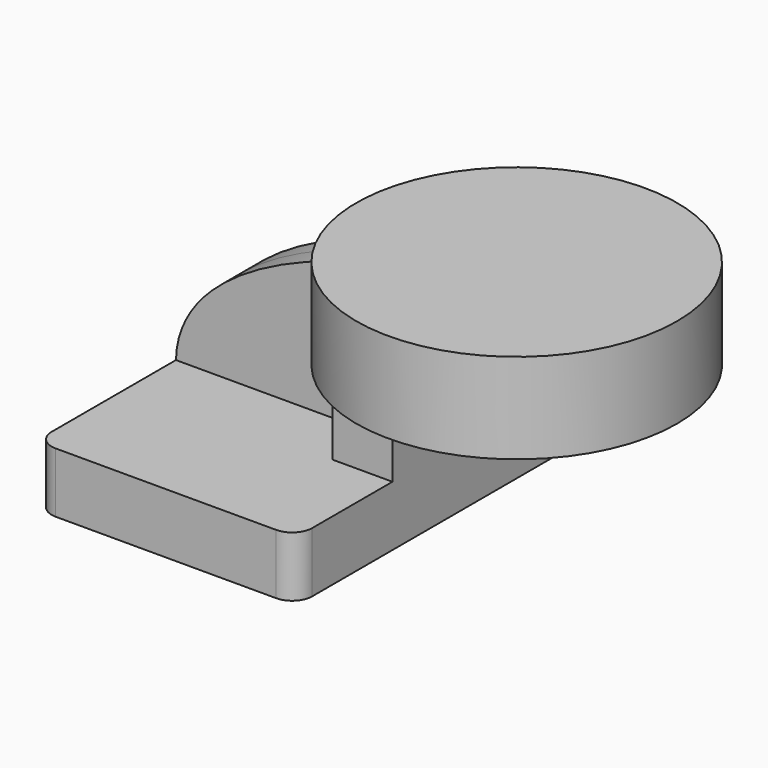
from build123d import *

# Parameters (mm, degrees)
F2_DEPTH = 63.5
F0_W     = 25.4
F0_H     = 19.05
F3_DEPTH = 25.4
F4_DEPTH = 7.9375
F6_R     = 6.35


with BuildPart() as f2:
    # F0 (on Front) → F2 (new body, symmetric)
    with BuildSketch(Plane.XZ):
        Polygon((22.225, 9.525), (-41.275, 9.525), (-41.275, -9.525), (41.275, -9.525), (41.275, 9.525), align=None)
    extrude(amount=F2_DEPTH, both=True)

    # F0 (on Front) → F3 (join, symmetric)
    with BuildSketch(Plane.XZ):
        with BuildLine():
            Line((22.225, 27.0002), (22.225, 9.525))
            Line((22.225, 9.525), (41.275, 9.525))
            Line((41.275, 9.525), (41.275, 27.0002))
            ThreePointArc((41.275, 27.0002), (45.92468, 38.22552), (57.15, 42.8752))
            Line((57.15, 42.8752), (60.325, 42.8752))
            Line((60.325, 42.8752), (60.325, 61.9252))
            Line((60.325, 61.9252), (57.15, 61.9252))
            add(Edge.make_bspline(
                [(53.781743, 61.762399), (54.91175, 61.828445), (56.034888, 61.882742), (57.15, 61.9252)],
                knots=[108.60958, 108.60958, 108.60958, 108.60958, 111.504536, 111.504536, 111.504536, 111.504536], degree=3))
            ThreePointArc((53.781743, 61.762399), (31.290843, 50.474859), (22.225, 27.0002))
        make_face()
        with Locations((73.025, 52.4002)):
            Rectangle(F0_W, F0_H)
    extrude(amount=F3_DEPTH, both=True)

    # F0 (on Front) → F4 (join, symmetric)
    with BuildSketch(Plane.XZ):
        with BuildLine():
            add(Edge.make_bspline(
                [(-41.275, 9.525), (-40.674691, 40.270035), (11.387457, 59.284553), (53.781743, 61.762399)],
                knots=[0, 0, 0, 0, 108.60958, 108.60958, 108.60958, 108.60958], degree=3))
            Line((-41.275, 9.525), (22.225, 9.525))
            Line((22.225, 9.525), (22.225, 27.0002))
            ThreePointArc((22.225, 27.0002), (31.290843, 50.474859), (53.781743, 61.762399))
        make_face()
    extrude(amount=F4_DEPTH, both=True)

    # F6
    f6_edges = [f2.edges().sort_by_distance(p)[0] for p in [
        (41.275, -63.5, 0),
        (-41.275, -63.5, 0),
        (41.275, 63.5, 0),
        (-41.275, 63.5, 0),
    ]]
    fillet(f6_edges, radius=F6_R)


with BuildPart() as f5:
    # F0 (on Front) → F5 (revolve)
    with BuildSketch(Plane.XZ):
        Polygon((60.325, 66.675), (60.325, 61.9252), (85.725, 61.9252), (85.725, 42.8752), (60.325, 42.8752), (60.325, 38.1), (111.125, 38.1), (111.125, 66.675), align=None)
    revolve(axis=Axis((60.325, 0, 52.3875), (0, 0, -1)))


solid = Compound([f2.part, f5.part])
